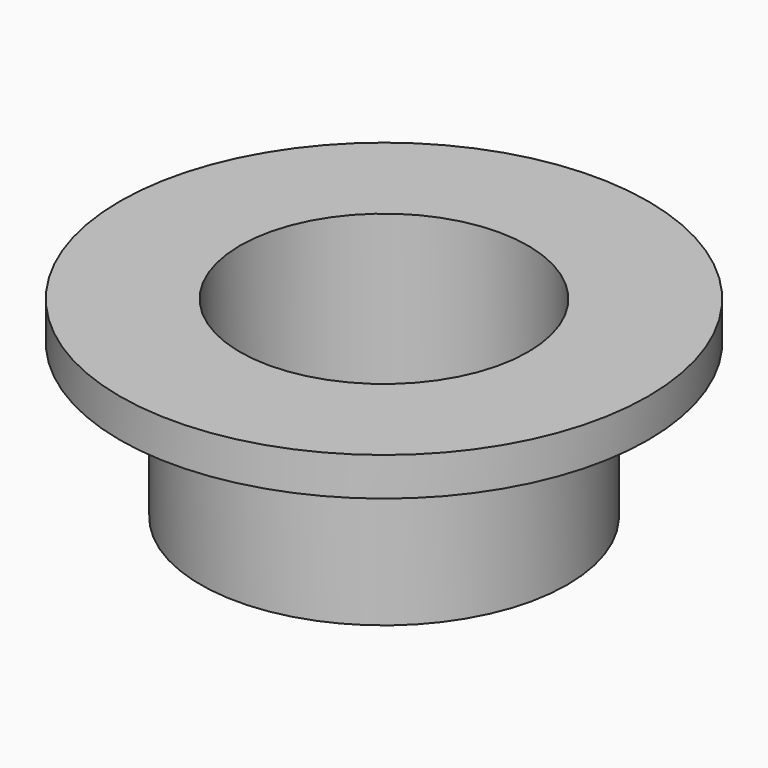
from build123d import *

# Parameters (mm, degrees)
F0_R     = 12.128182
F1_DEPTH = 12.7
F2_R     = 9.525
F3_DEPTH = 12.701
F2_R_2   = 17.465404
F2_R_3   = 12.128182
F4_DEPTH = 2.54


with BuildPart() as f1:
    # F0 (on Top) → F1 (new body)
    with BuildSketch(Plane.XY):
        Circle(F0_R)
    extrude(amount=F1_DEPTH)

    # F2 (on face) → F3 (cut, through all)
    with BuildSketch(Plane.XY.offset(12.7)):
        Circle(F2_R)
    extrude(amount=-F3_DEPTH, mode=Mode.SUBTRACT)

    # F2 (on face) → F4 (join)
    with BuildSketch(Plane.XY.offset(12.7)):
        Circle(F2_R_2)
        Circle(F2_R_3, mode=Mode.SUBTRACT)
    extrude(amount=-F4_DEPTH)


solid = f1.part
